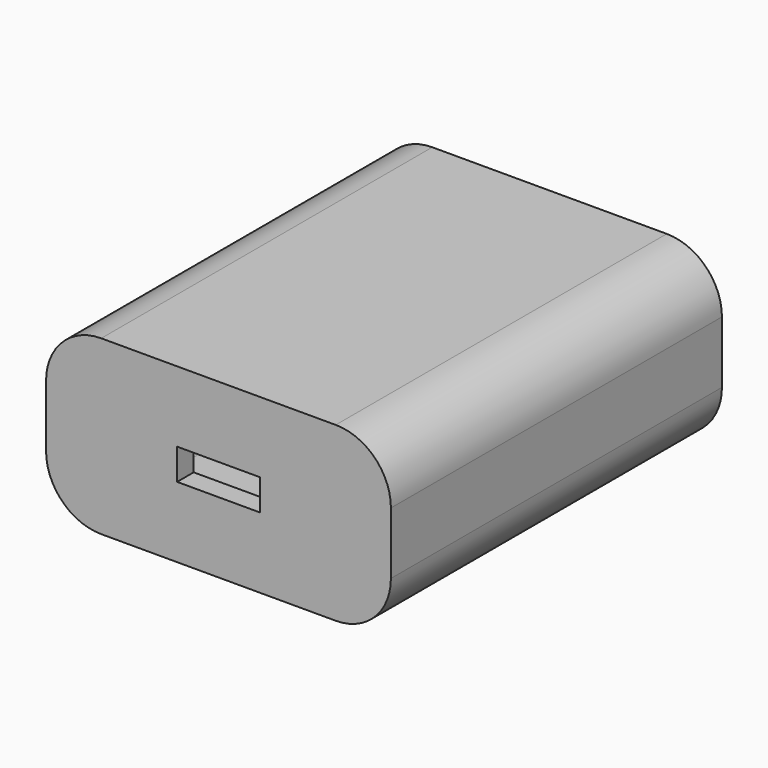
from build123d import *

# Parameters (mm, degrees)
F0_W     = 50
F0_H     = 60
F1_DEPTH = 25
F2_R     = 8
F3_T     = -3
F4_W     = 12
F4_H     = 4.5
F5_DEPTH = 3


with BuildPart() as f1:
    # F0 (on Top) → F1 (new body)
    with BuildSketch(Plane.XY):
        Rectangle(F0_W, F0_H)
    extrude(amount=F1_DEPTH)

    # F2
    f2_edges = [f1.edges().sort_by_distance(p)[0] for p in [
        (25, 0, 25),
        (25, 0, 0),
        (-25, 0, 0),
        (-25, 0, 25),
    ]]
    fillet(f2_edges, radius=F2_R)

    # F3 (hollow: no face is removed)
    offset(amount=F3_T, mode=Mode.SUBTRACT)

    # F4 (on face) → F5 (cut)
    with BuildSketch(Plane.XZ.offset(30)):
        with Locations((0, 12.5)):
            Rectangle(F4_W, F4_H)
    extrude(amount=-F5_DEPTH, mode=Mode.SUBTRACT)


solid = f1.part
